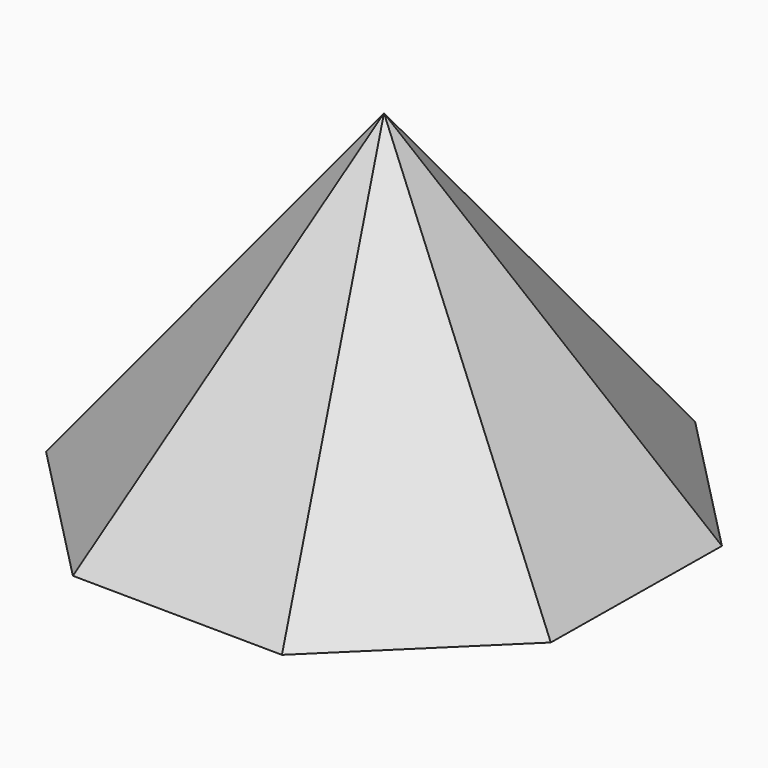
from build123d import *


with BuildPart() as f3:
    # F0 (on Top) → F3 section 0
    with BuildSketch(Plane.XY, mode=Mode.PRIVATE) as f3_s0:
        Polygon((76.551992, 30.699513), (32.422599, 75.838267), (-30.699513, 76.551992), (-75.838267, 32.422599), (-76.551992, -30.699513), (-32.422599, -75.838267), (30.699513, -76.551992), (75.838267, -32.422599), align=None)
    loft([Vertex(0, 0, 101.6), f3_s0.sketch])


solid = f3.part
